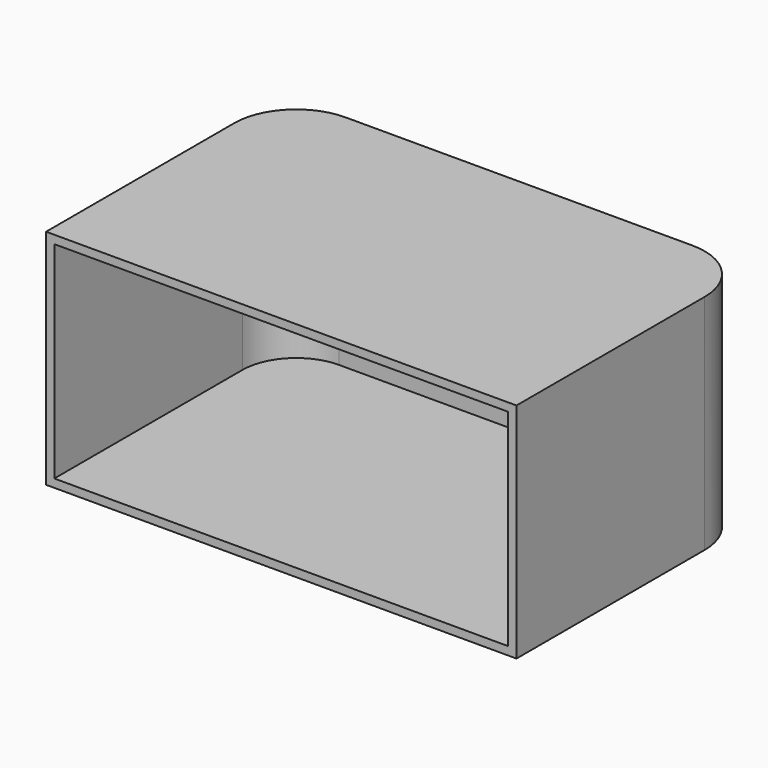
from build123d import *

# Parameters (mm, degrees)
F1_DEPTH = 54
F2_T     = -2


with BuildPart() as f1:
    # F0 (on Top) → F1 (new body)
    with BuildSketch(Plane.XY):
        with BuildLine():
            Line((-57, 57), (-57, 0))
            Line((-57, 0), (0, 0))
            Line((0, 0), (57, 0))
            Line((57, 0), (57, 57))
            ThreePointArc((57, 57), (52.606602, 67.606602), (42, 72))
            Line((42, 72), (0, 72))
            Line((0, 72), (-42, 72))
            ThreePointArc((-42, 72), (-52.606602, 67.606602), (-57, 57))
        make_face()
    extrude(amount=F1_DEPTH)

    # F2
    f2_openings = [f1.faces().sort_by_distance(p)[0] for p in [
        (0, 0, 27),
    ]]
    offset(amount=F2_T, openings=f2_openings)


solid = f1.part
